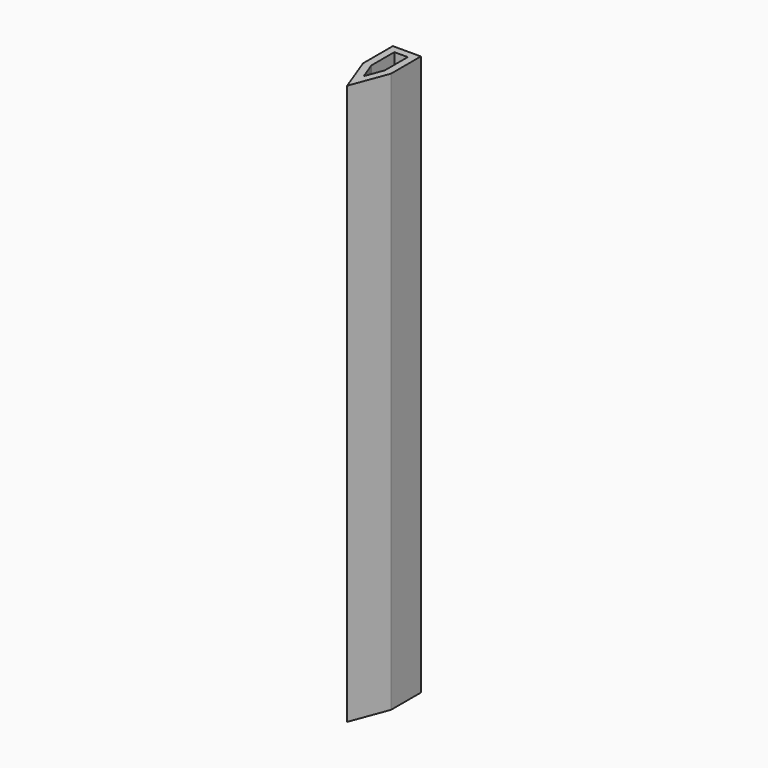
from build123d import *

# Parameters (mm, degrees)
F1_DEPTH = 300
F3_DEPTH = 300.001


with BuildPart() as f1:
    # F0 (on Top) → F1 (new body)
    with BuildSketch(Plane.XY):
        Polygon((-7.5, 20), (-7.5, 0), (0, -20), (7.5, 0), (7.5, 20), align=None)
    extrude(amount=F1_DEPTH)

    # F2 (on face) → F3 (cut, through all)
    with BuildSketch(Plane.XY.offset(300)):
        Polygon((-3.6, 0.707205), (0, -8.892795), (3.6, 0.707205), (3.6, 16.1), (-3.6, 16.1), align=None)
    extrude(amount=-F3_DEPTH, mode=Mode.SUBTRACT)


solid = f1.part
